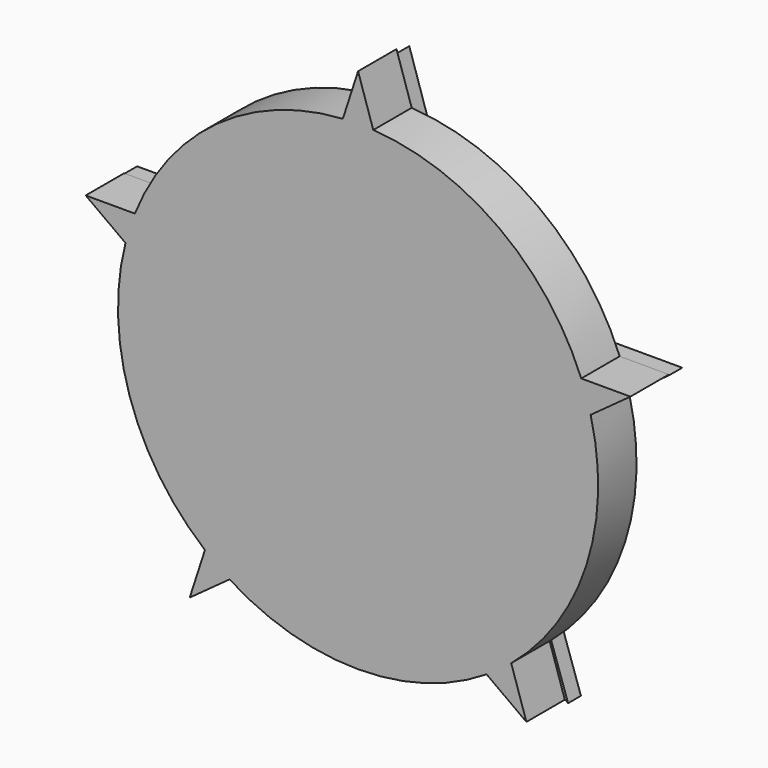
from build123d import *

# Parameters (mm, degrees)
F0_R     = 38.1
F1_DEPTH = 7.62
F3_DEPTH = 7.62
F5_DEPTH = 2.54


with BuildPart() as f1:
    # F0 (on Front) → F1 (new body)
    with BuildSketch(Plane.XZ):
        Circle(F0_R)
    extrude(amount=F1_DEPTH)

    # F2 (on Front) → F3 (join)
    with BuildSketch(Plane.XZ):
        Polygon((43.2237411543, 14.0442448459), (10.2037411543, 14.0442448459), (16.51, -5.3644241848), align=None)
        Polygon((16.51, -5.3644241848), (10.2037411543, 14.0442448459), (-10.2037411543, 14.0442448459), (-16.51, -5.3644241848), (0, -17.3596413222), align=None)
        Polygon((-10.2037411543, 14.0442448459), (10.2037411543, 14.0442448459), (0, 45.448131014), align=None)
        Polygon((26.7137411543, -36.7683103529), (16.51, -5.3644241848), (0, -17.3596413222), align=None)
        Polygon((-16.51, -5.3644241848), (-10.2037411543, 14.0442448459), (-43.2237411543, 14.0442448459), align=None)
        Polygon((-26.7137411543, -36.7683103529), (0, -17.3596413222), (-16.51, -5.3644241848), align=None)
    extrude(amount=F3_DEPTH)

    # F4 (on face) → F5 (join)
    with BuildSketch(Plane.XZ):
        Polygon((16.5334772319, -5.4629510269), (9.9479760975, 13.9897912741), (-10.4440292343, 13.9897912741), (-16.3596607745, -5.4629510269), (0, -17.2653142363), align=None)
        Polygon((43.3266088367, 13.9897912741), (9.9479760975, 13.9897912741), (16.5334772319, -5.4629510269), align=None)
        Polygon((-10.4440292343, 13.9897912741), (9.9479760975, 13.9897912741), (0, 44.8327288032), align=None)
        Polygon((-16.3596607745, -5.4629510269), (-10.4440292343, 13.9897912741), (-43.1872978806, 13.9897912741), align=None)
        Polygon((27.2381013996, -37.0830648364), (16.5334772319, -5.4629510269), (0, -17.2653142363), align=None)
        Polygon((0, -17.2653142363), (-16.3596607745, -5.4629510269), (-27.761925516, -37.0830648364), align=None)
    extrude(amount=-F5_DEPTH)


solid = f1.part
